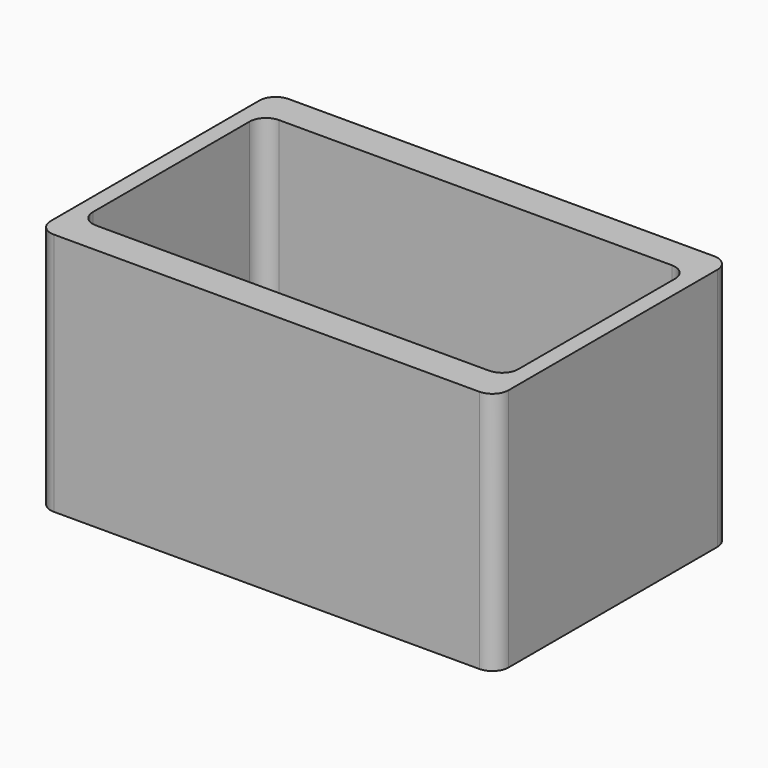
from build123d import *

# Parameters (mm, degrees)
F1_DEPTH = 7.62
F2_DEPTH = 38.1


with BuildPart() as f1:
    # F0 (on Top) → F1 (new body)
    with BuildSketch(Plane.XY):
        with BuildLine():
            Line((-30.662336, -17.827643), (30.662336, -17.827643))
            ThreePointArc((30.662336, -17.827643), (32.458387, -17.083694), (33.202336, -15.287643))
            Line((33.202336, -15.287643), (33.202336, 15.287643))
            ThreePointArc((33.202336, 15.287643), (32.458387, 17.083694), (30.662336, 17.827643))
            Line((30.662336, 17.827643), (-30.662336, 17.827643))
            ThreePointArc((-30.662336, 17.827643), (-32.458387, 17.083694), (-33.202336, 15.287643))
            Line((-33.202336, 15.287643), (-33.202336, -15.287643))
            ThreePointArc((-33.202336, -15.287643), (-32.458387, -17.083694), (-30.662336, -17.827643))
        make_face()
    extrude(amount=F1_DEPTH)


with BuildPart() as f2:
    # F0 (on Top) → F2 (new body)
    with BuildSketch(Plane.XY):
        with BuildLine():
            Line((-33.202336, -22.907643), (33.202336, -22.907643))
            ThreePointArc((33.202336, -22.907643), (34.998387, -22.163694), (35.742336, -20.367643))
            Line((35.742336, -20.367643), (35.742336, 20.367643))
            ThreePointArc((35.742336, 20.367643), (34.998387, 22.163694), (33.202336, 22.907643))
            Line((33.202336, 22.907643), (-33.202336, 22.907643))
            ThreePointArc((-33.202336, 22.907643), (-34.998387, 22.163694), (-35.742336, 20.367643))
            Line((-35.742336, 20.367643), (-35.742336, -20.367643))
            ThreePointArc((-35.742336, -20.367643), (-34.998387, -22.163694), (-33.202336, -22.907643))
        make_face()
        with BuildLine():
            ThreePointArc((33.202336, -15.287643), (32.458387, -17.083694), (30.662336, -17.827643))
            Line((30.662336, -17.827643), (-30.662336, -17.827643))
            ThreePointArc((-30.662336, -17.827643), (-32.458387, -17.083694), (-33.202336, -15.287643))
            Line((-33.202336, -15.287643), (-33.202336, 15.287643))
            ThreePointArc((-33.202336, 15.287643), (-32.458387, 17.083694), (-30.662336, 17.827643))
            Line((-30.662336, 17.827643), (30.662336, 17.827643))
            ThreePointArc((30.662336, 17.827643), (32.458387, 17.083694), (33.202336, 15.287643))
            Line((33.202336, 15.287643), (33.202336, -15.287643))
        make_face(mode=Mode.SUBTRACT)
    extrude(amount=F2_DEPTH)


solid = Compound([f1.part, f2.part])
